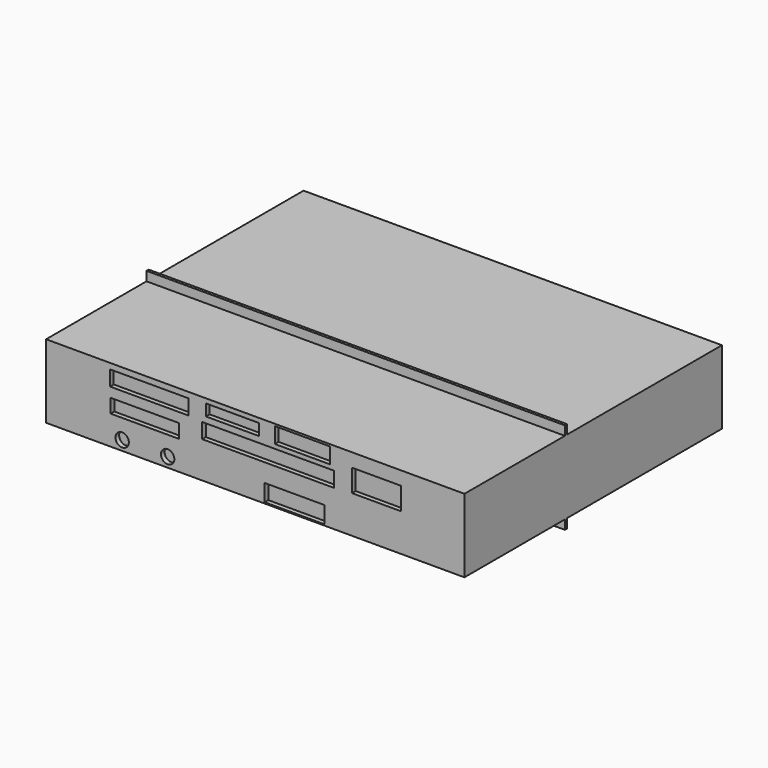
from build123d import *

# Parameters (mm, degrees)
F0_W     = 91
F0_H     = 16
F1_DEPTH = 70
F2_R     = 1.456775
F2_W     = 10.683106
F2_H     = 4.879937
F2_W_2   = 13.057131
F2_H_2   = 3.692926
F2_W_3   = 17.013836
F2_H_3   = 3.297256
F2_W_4   = 14.903594
F2_H_4   = 3.033476
F2_W_5   = 11.60634
F2_H_5   = 2.505915
F2_W_6   = 12.00201
F2_H_6   = 3.429146
F2_W_7   = 28.620178
F2_H_7   = 3.297255
F3_DEPTH = 1
F4_W     = 0.6
F4_H     = 2
F5_DEPTH = 91


with BuildPart() as f1:
    # F0 (on Front) → F1 (new body)
    with BuildSketch(Plane.XZ):
        Rectangle(F0_W, F0_H)
    extrude(amount=-F1_DEPTH)

    # F2 (on face) → F3 (cut)
    with BuildSketch(Plane.XZ):
        with Locations((-28.951265, -5.898637)):
            Circle(F2_R)
        with Locations((-19.059498, -5.898637)):
            Circle(F2_R)
        with Locations((26.376682, 2.608282)):
            Rectangle(F2_W, F2_H)
        with Locations((8.571502, -5.898637)):
            Rectangle(F2_W_2, F2_H_2)
        with Locations((-23.08215, 5.114197)):
            Rectangle(F2_W_3, F2_H_3)
        with Locations((-24.005381, -0.161412)):
            Rectangle(F2_W_4, F2_H_4)
        with Locations((-4.947245, 5.773649)):
            Rectangle(F2_W_5, F2_H_5)
        with Locations((10.286076, 5.839593)):
            Rectangle(F2_W_6, F2_H_6)
        with Locations((2.768333, 1.55316)):
            Rectangle(F2_W_7, F2_H_7)
    extrude(amount=-F3_DEPTH, mode=Mode.SUBTRACT)

    # F4 (on face) → F5 (join, through all)
    with BuildSketch(Plane.YZ.offset(45.5)):
        with Locations((27.6, 9)):
            Rectangle(F4_W, F4_H)
        with Locations((27.6, -9)):
            Rectangle(F4_W, F4_H)
    extrude(amount=-F5_DEPTH)


solid = f1.part
